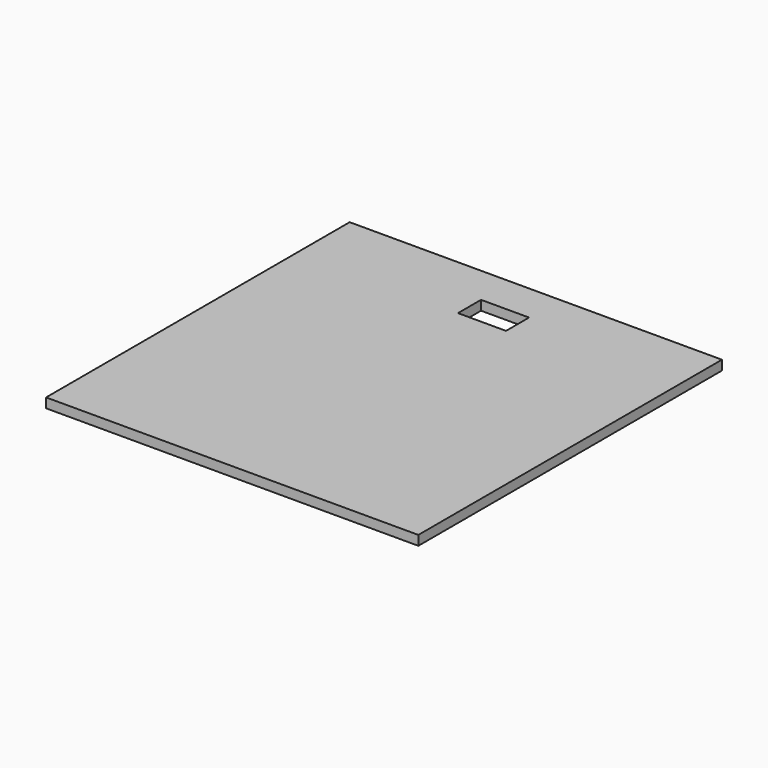
from build123d import *

# Parameters (mm, degrees)
F0_W     = 984.25
F0_H     = 1003.3
F0_W_2   = 127
F0_H_2   = 76.2
F1_DEPTH = 6.35
F2_DEPTH = 25.4
F3_DEPTH = 25.4


with BuildPart() as f1:
    # F0 (on Top) → F1 (new body)
    with BuildSketch(Plane.XY):
        with Locations((415.838617, 13.748734)):
            Rectangle(F0_W, F0_H)
        with Locations((415.838617, 375.698734)):
            Rectangle(F0_W_2, F0_H_2, mode=Mode.SUBTRACT)
    extrude(amount=F1_DEPTH)

    # F0 (on Top) → F2 (join)
    with BuildSketch(Plane.XY):
        with Locations((415.838617, 13.748734)):
            Rectangle(F0_W, F0_H)
        with Locations((415.838617, 375.698734)):
            Rectangle(F0_W_2, F0_H_2, mode=Mode.SUBTRACT)
    extrude(amount=F2_DEPTH)

    # F0 (on Top) → F3 (join)
    with BuildSketch(Plane.XY):
        with Locations((415.838617, 13.748734)):
            Rectangle(F0_W, F0_H)
        with Locations((415.838617, 375.698734)):
            Rectangle(F0_W_2, F0_H_2, mode=Mode.SUBTRACT)
    extrude(amount=F3_DEPTH)


solid = f1.part
